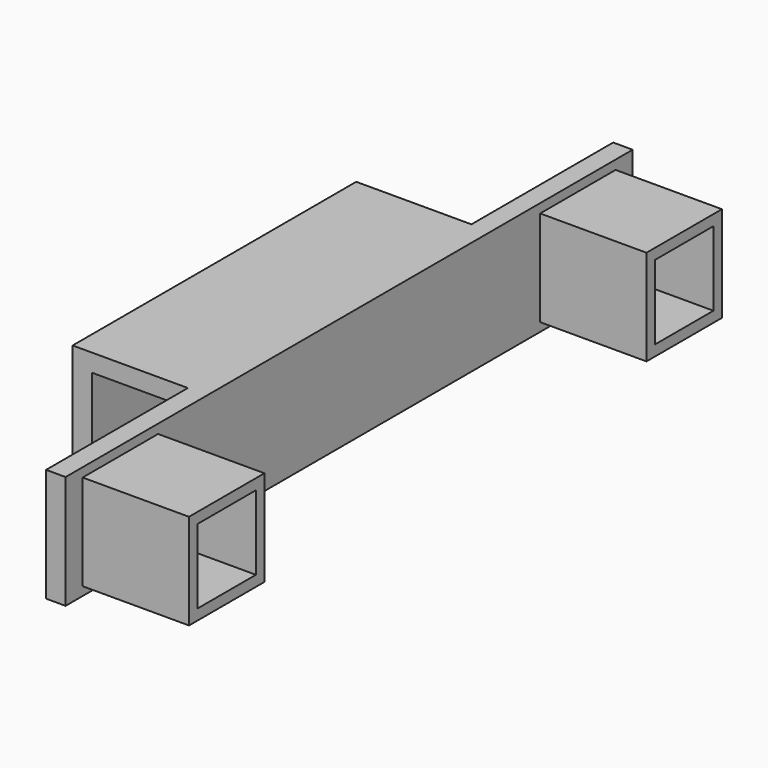
from build123d import *

# Parameters (mm, degrees)
F0_W     = 19
F0_H     = 50
F1_DEPTH = 16
F2_W     = 13.5
F2_H     = 13.5011018194
F3_DEPTH = 50
F4_W     = 100
F4_H     = 16
F4_W_2   = 13.2999992773
F4_H_2   = 13.4999992773
F4_W_3   = 10.3
F4_H_3   = 10.5
F5_DEPTH = 2.75
F6_DEPTH = 15


with BuildPart() as f1:
    # F0 (on Top) → F1 (new body)
    with BuildSketch(Plane.XY):
        Rectangle(F0_W, F0_H)
    extrude(amount=F1_DEPTH)

    # F2 (on face) → F3 (cut)
    with BuildSketch(Plane.XZ.offset(25)):
        with Locations((0, 6.7505509097)):
            Rectangle(F2_W, F2_H)
    extrude(amount=-F3_DEPTH, mode=Mode.SUBTRACT)

    # F4 (on face) → F5 (join)
    with BuildSketch(Plane.YZ.offset(9.5)):
        with Locations((0, 8)):
            Rectangle(F4_W, F4_H)
        with Locations((-40.3361745238, 7.9659550227)):
            Rectangle(F4_W_2, F4_H_2, mode=Mode.SUBTRACT)
        with Locations((40.3361745238, 7.9659550227)):
            Rectangle(F4_W_2, F4_H_2, mode=Mode.SUBTRACT)
        with Locations((-40.3361745238, 7.9659550227)):
            Rectangle(F4_W_2, F4_H_2)
        with Locations((-40.3361745238, 7.9659550227)):
            Rectangle(F4_W_3, F4_H_3, mode=Mode.SUBTRACT)
        with Locations((40.3361745238, 7.9659550227)):
            Rectangle(F4_W_2, F4_H_2)
        with Locations((40.3361745238, 7.9659550227)):
            Rectangle(F4_W_3, F4_H_3, mode=Mode.SUBTRACT)
        with Locations((-40.3361745238, 7.9659550227)):
            Rectangle(F4_W_3, F4_H_3)
        with Locations((40.3361745238, 7.9659550227)):
            Rectangle(F4_W_3, F4_H_3)
    extrude(amount=-F5_DEPTH)

    # F4 (on face) → F6 (join)
    with BuildSketch(Plane.YZ.offset(9.5)):
        with Locations((-40.3361745238, 7.9659550227)):
            Rectangle(F4_W_2, F4_H_2)
        with Locations((-40.3361745238, 7.9659550227)):
            Rectangle(F4_W_3, F4_H_3, mode=Mode.SUBTRACT)
        with Locations((40.3361745238, 7.9659550227)):
            Rectangle(F4_W_2, F4_H_2)
        with Locations((40.3361745238, 7.9659550227)):
            Rectangle(F4_W_3, F4_H_3, mode=Mode.SUBTRACT)
    extrude(amount=F6_DEPTH)


solid = f1.part
